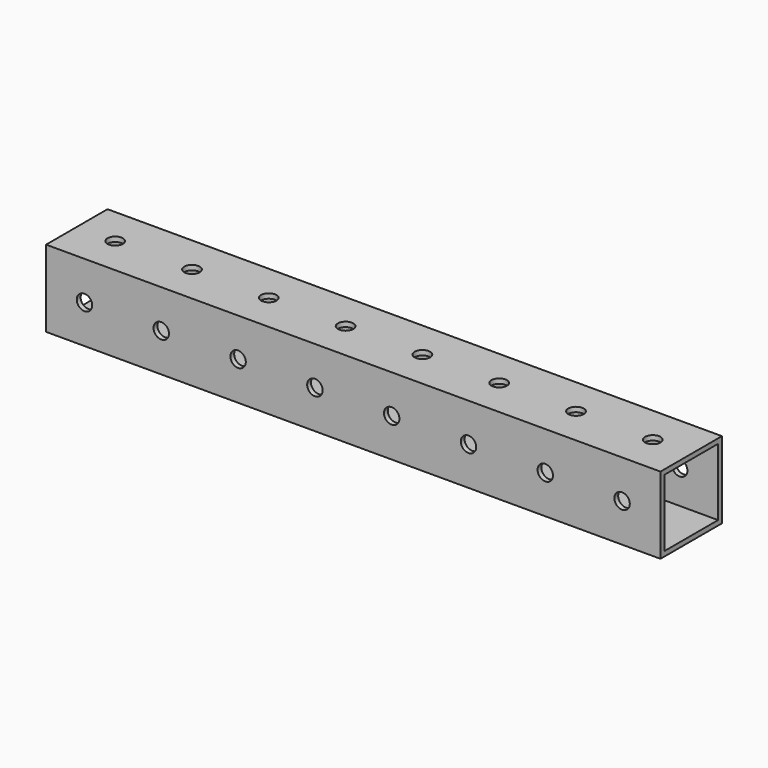
from build123d import *

# Parameters (mm, degrees)
F0_W     = 203.2
F0_H     = 25.4
F1_DEPTH = 25.4
F2_W     = 22.225
F2_H     = 22.2123
F3_DEPTH = 203.2
F5_R     = 2.5527
F6_DEPTH = 50.8
F7_D     = 5.1054


with BuildPart() as f1:
    # F0 (on Top) → F1 (new body)
    with BuildSketch(Plane.XY):
        with Locations((-7.462719, 18.38669)):
            Rectangle(F0_W, F0_H)
    extrude(amount=F1_DEPTH)

    # F2 (on face) → F3 (cut)
    with BuildSketch(Plane.YZ.offset(94.137281)):
        with Locations((18.38669, 12.70635)):
            Rectangle(F2_W, F2_H)
    extrude(amount=-F3_DEPTH, mode=Mode.SUBTRACT)

    # F5 (on face) → F6 (cut)
    with BuildSketch(Plane(origin=(0, 31.08669, 0), x_dir=(-1, 0, 0), z_dir=(0, 1, 0))):
        with Locations((-5.237281, 12.7)):
            Circle(F5_R)
        with Locations((-30.637281, 12.7)):
            Circle(F5_R)
        with Locations((20.162719, 12.7)):
            Circle(F5_R)
        with Locations((45.562719, 12.7)):
            Circle(F5_R)
        with Locations((70.962719, 12.7)):
            Circle(F5_R)
        with Locations((96.362719, 12.7)):
            Circle(F5_R)
        with Locations((-81.437281, 12.7)):
            Circle(F5_R)
        with Locations((-56.037281, 12.7)):
            Circle(F5_R)
    extrude(amount=-F6_DEPTH, mode=Mode.SUBTRACT)

    # F7 (through all)
    with Locations(Plane.XY.offset(25.4)):
        with Locations((81.437281, -7.01331), (-96.362719, 18.38669), (-70.962719, 18.38669), (30.637281, 18.38669), (-96.362719, -7.01331), (-20.162719, 18.38669), (81.437281, 18.38669), (-45.562719, -7.01331), (5.237281, -7.01331), (56.037281, -7.01331), (30.637281, -7.01331), (56.037281, 18.38669), (-45.562719, 18.38669), (-70.962719, -7.01331), (-20.162719, -7.01331), (5.237281, 18.38669)):
            Hole(F7_D / 2)


solid = f1.part
